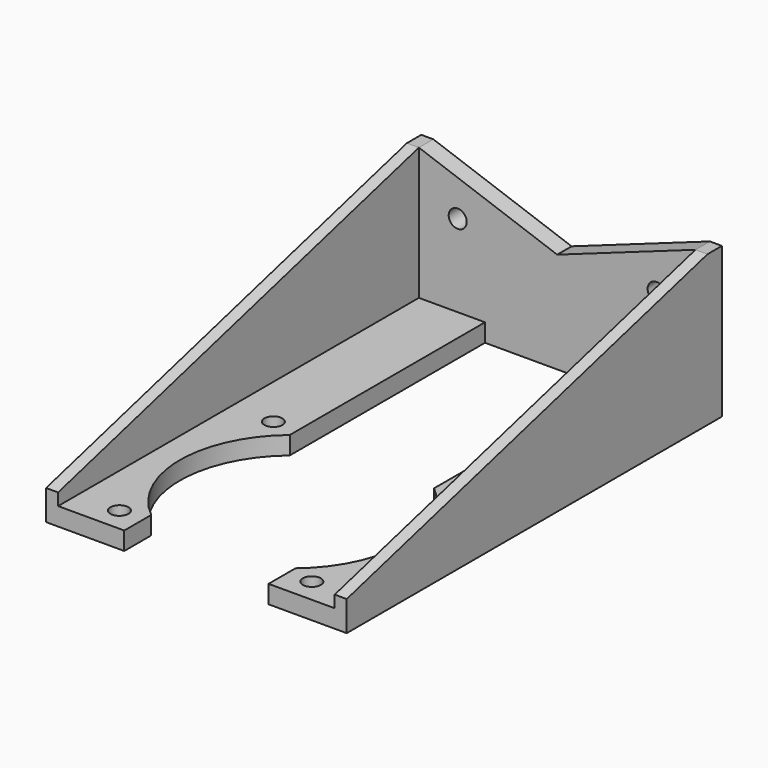
from build123d import *

# Parameters (mm, degrees)
F0_R     = 1.5
F1_DEPTH = 3
F3_DEPTH = 2
F7_R     = 1.5
F8_DEPTH = 3


with BuildPart() as f1:
    # F0 (on Top) → F1 (new body)
    with BuildSketch(Plane.XY):
        with BuildLine():
            Line((8, 0), (8, 5.5929704658))
            ThreePointArc((8, 5.5929704658), (1.25, 20), (8, 34.4070295342))
            Line((8, 34.4070295342), (8, 75))
            Line((8, 75), (20, 75))
            Line((20, 75), (32, 75))
            Line((32, 75), (32, 34.4070295342))
            ThreePointArc((32, 34.4070295342), (38.75, 20), (32, 5.5929704658))
            Line((32, 5.5929704658), (32, 0))
            Line((32, 0), (43, 0))
            Line((43, 0), (43, 78))
            Line((43, 78), (20, 78))
            Line((20, 78), (-3, 78))
            Line((-3, 78), (-3, 0))
            Line((-3, 0), (8, 0))
        make_face()
        with Locations((4, 4)):
            Circle(F0_R, mode=Mode.SUBTRACT)
        with Locations((4, 36)):
            Circle(F0_R, mode=Mode.SUBTRACT)
        with Locations((36, 4)):
            Circle(F0_R, mode=Mode.SUBTRACT)
        with Locations((36, 36)):
            Circle(F0_R, mode=Mode.SUBTRACT)
    extrude(amount=-F1_DEPTH)

    # F2 (on face) → F3 (join)
    with BuildSketch(Plane(origin=(-3, 0, 0), x_dir=(0, -1, 0), z_dir=(-1, 0, 0))):
        Polygon((-78, -3), (0, -3), (0, 2), (-75, 22), (-78, 22), align=None)
    extrude(amount=F3_DEPTH)

    # F6: F1 across plane


with BuildPart() as f1_1:
    add(f1.part)
    add(f1.part.mirror(Plane.YZ.offset(20)))

    # F7 (on face) → F8 (join, through all)
    with BuildSketch(Plane(origin=(0, 78, 0), x_dir=(-1, 0, 0), z_dir=(0, 1, 0))):
        Polygon((-45, 22), (-45, -3), (5, -3), (5, 22), (3, 22), (-20, 13.8037335128), (-43, 22), align=None)
        with Locations((-36.5411415696, 13.6936744675)):
            Circle(F7_R, mode=Mode.SUBTRACT)
        with Locations((-3.4588584304, 13.6936744675)):
            Circle(F7_R, mode=Mode.SUBTRACT)
    extrude(amount=-F8_DEPTH)


solid = f1_1.part
